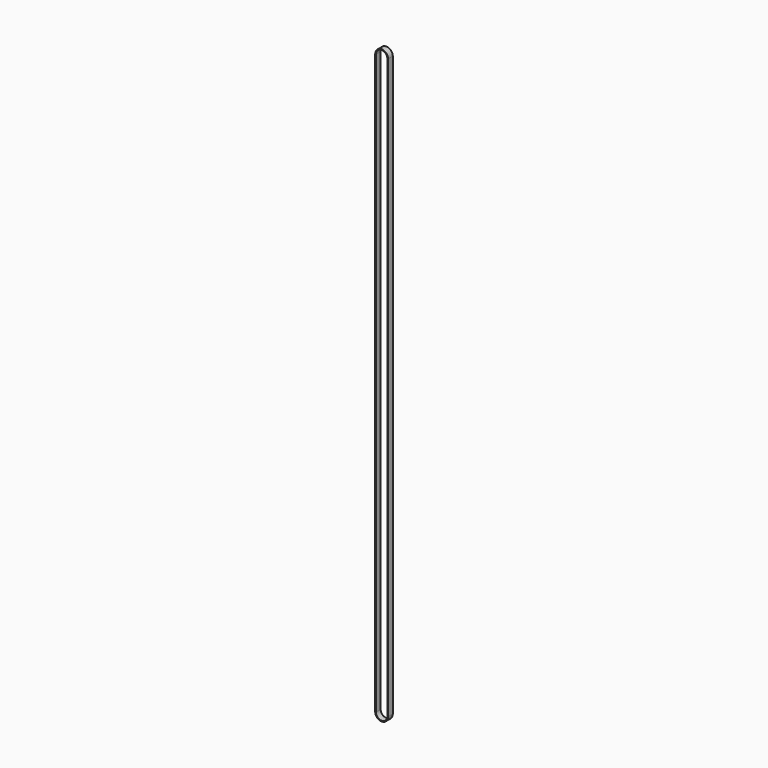
from build123d import *

# Parameters (mm, degrees)
F1_DEPTH = 6


with BuildPart() as f1:
    # F0 (on Front) → F1 (new body)
    with BuildSketch(Plane.XZ):
        with BuildLine():
            Line((6.5, -586), (6.5, 0))
            ThreePointArc((6.5, 0), (0, 6.5), (-6.5, 0))
            Line((-6.5, 0), (-6.5, -586))
            ThreePointArc((-6.5, -586), (0, -592.5), (6.5, -586))
        make_face()
        with BuildLine():
            ThreePointArc((-5.75, 0), (0, 5.75), (5.75, 0))
            Line((5.75, 0), (5.75, -586))
            ThreePointArc((5.75, -586), (0, -591.75), (-5.75, -586))
            Line((-5.75, -586), (-5.75, -6.373286))
            Line((-5.75, -6.373286), (-5.75, -5.373286))
            Line((-5.75, -5.373286), (-5.75, 0))
        make_face(mode=Mode.SUBTRACT)
    extrude(amount=F1_DEPTH)


solid = f1.part
